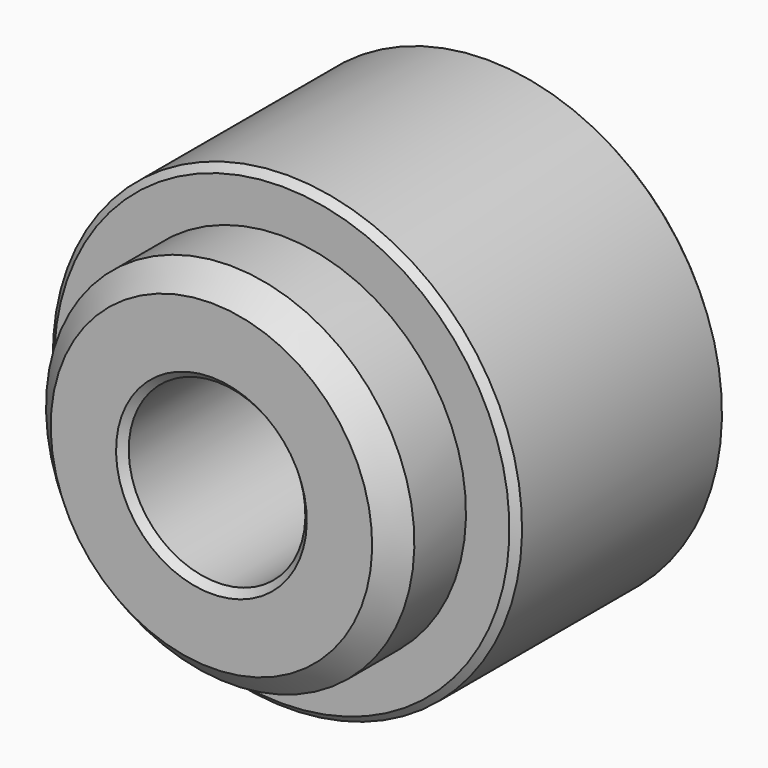
from build123d import *

# Parameters (mm, degrees)
F2_SIZE = 2.54
F3_SIZE = 0.762


with BuildPart() as f1:
    # F0 (on Right) → F1 (revolve)
    with BuildSketch(Plane.YZ):
        Polygon((9.525, 19.939), (0, 19.939), (0, 9.5631), (38.1, 9.5631), (38.1, 25.4), (9.525, 25.4), align=None)
    revolve(axis=Axis((0, 8.629879, 0), (0, 1, 0)))

    # F2
    f2_edges = [f1.edges().sort_by_distance(p)[0] for p in [
        (0, 0, -19.939),
    ]]
    chamfer(f2_edges, length=F2_SIZE)

    # F3
    f3_edges = [f1.edges().sort_by_distance(p)[0] for p in [
        (0, 0, -9.5631),
        (0, 38.1, -9.5631),
        (0, 19.05, 9.5631),
        (0, 38.1, -25.4),
        (0, 9.525, -25.4),
        (0, 23.8125, 25.4),
    ]]
    chamfer(f3_edges, length=F3_SIZE)


solid = f1.part
